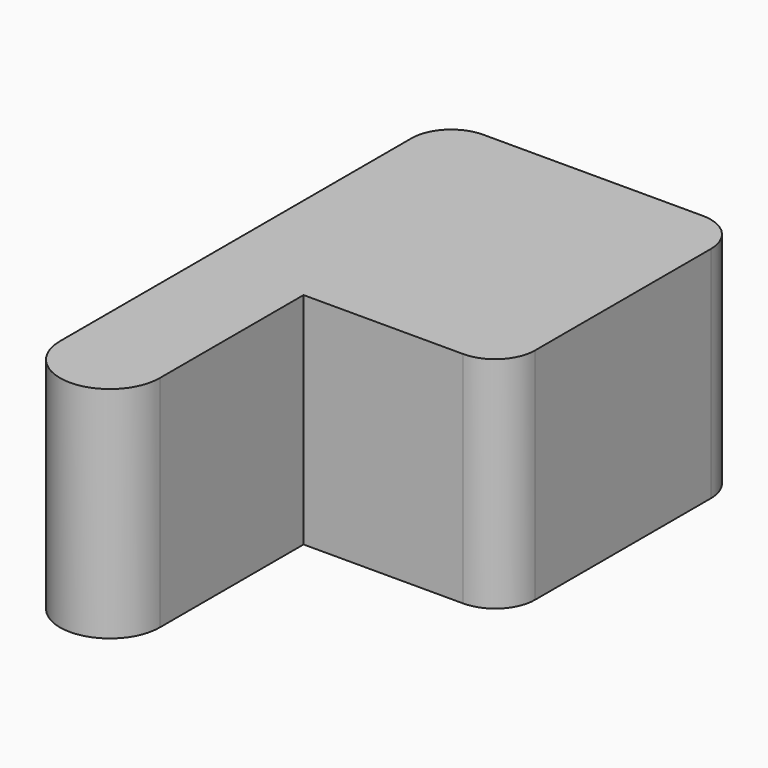
from build123d import *

# Parameters (mm, degrees)
F0_R     = 3.048
F0_W     = 19.05
F0_H     = 3.302
F1_DEPTH = 13.97
F2_R     = 2.54
F3_R     = 3.048
F4_DEPTH = 3.302
F5_DEPTH = 13.97


with BuildPart() as f1:
    # F0 (on Top) → F1 (new body)
    with BuildSketch(Plane.XY):
        Polygon((9.525, 6.223), (-9.525, 6.223), (-9.525, -9.525), (-3.175, -9.525), (9.525, -9.525), align=None)
        Circle(F0_R, mode=Mode.SUBTRACT)
        with Locations((0, 7.874)):
            Rectangle(F0_W, F0_H)
    extrude(amount=F1_DEPTH)

    # F2
    f2_edges = [f1.edges().sort_by_distance(p)[0] for p in [
        (9.525, 9.525, 6.985),
        (-9.525, 9.525, 6.985),
        (9.525, -9.525, 6.985),
    ]]
    fillet(f2_edges, radius=F2_R)

    # F3 (on face) → F4 (join)
    with BuildSketch(Plane.XY.offset(13.97)):
        Circle(F3_R)
    extrude(amount=-F4_DEPTH)

    # F0 (on Top) → F5 (join, through all)
    with BuildSketch(Plane.XY):
        with BuildLine():
            Line((-3.175, -9.525), (-9.525, -9.525))
            Line((-9.525, -9.525), (-9.525, -20.955))
            ThreePointArc((-9.525, -20.955), (-6.35, -24.13), (-3.175, -20.955))
            Line((-3.175, -20.955), (-3.175, -9.525))
        make_face()
    extrude(amount=F5_DEPTH)


solid = f1.part
